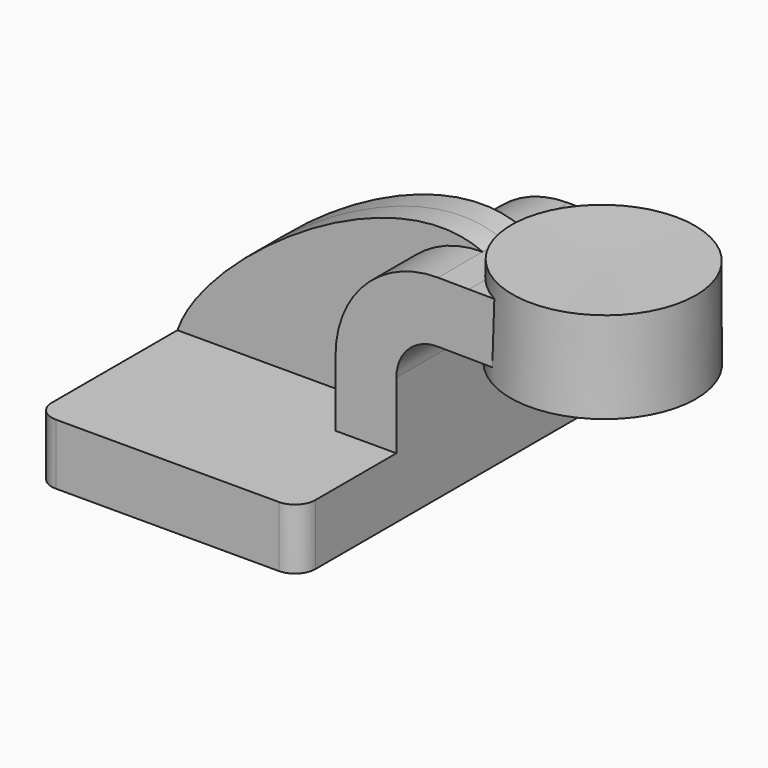
from build123d import *

# Parameters (mm, degrees)
F1_DEPTH = 63.5
F2_DEPTH = 25.4
F3_DEPTH = 7.9375
F5_R     = 6.35


with BuildPart() as f1:
    # F0 (on Front) → F1 (new body, symmetric)
    with BuildSketch(Plane.XZ):
        Polygon((41.275, -9.525), (41.275, 9.525), (22.225, 9.525), (-41.275, 9.525), (-41.275, -9.525), align=None)
    extrude(amount=F1_DEPTH, both=True)

    # F0 (on Front) → F2 (join, symmetric)
    with BuildSketch(Plane.XZ):
        Polygon((63.9889016747, 62.1188126437), (63.9889016747, 43.0680627667), (85.6312127138, 42.8760321675), (85.8415678118, 61.9249155796), align=None)
        with BuildLine():
            Line((22.225, 9.525), (41.275, 9.525))
            Line((41.275, 9.525), (41.275, 30.394497076))
            ThreePointArc((41.275, 30.394497076), (45.0528398589, 39.4580924516), (54.1495976422, 43.1553661719))
            Line((54.1495976422, 43.1553661719), (63.9889016747, 43.0680627667))
            Line((63.9889016747, 43.0680627667), (63.9889016747, 62.1188126437))
            Line((63.9889016747, 62.1188126437), (54.3186202071, 62.2046163244))
            ThreePointArc((54.3186202071, 62.2046163244), (31.6423473224, 52.9881031659), (22.225, 30.394497076))
            Line((22.225, 30.394497076), (22.225, 9.525))
        make_face()
    extrude(amount=F2_DEPTH, both=True)

    # F0 (on Front) → F3 (join, symmetric)
    with BuildSketch(Plane.XZ):
        with BuildLine():
            Line((-41.275, 9.525), (22.225, 9.525))
            Line((22.225, 9.525), (22.225, 30.394497076))
            ThreePointArc((22.225, 30.394497076), (31.6423473224, 52.9881031659), (54.3186202071, 62.2046163244))
            add(Edge.make_bspline(
                [(-41.275, 9.525), (-32.9198464751, 34.1910012066), (25.594945997, 75.3937736154), (54.3186202071, 62.2046163244)],
                knots=[0, 0, 0, 0, 109.1479830339, 109.1479830339, 109.1479830339, 109.1479830339], degree=3))
        make_face()
    extrude(amount=F3_DEPTH, both=True)

    # F0 (on Front) → F4 (revolve)
    with BuildSketch(Plane.XZ):
        Polygon((85.8415678118, 61.9249155796), (85.6312127138, 42.8760321675), (85.5784714222, 38.1), (114.7889016747, 38.1), (114.7889016747, 66.675), (85.8940225648, 66.675), align=None)
    revolve(axis=Axis((85.7362469935, 0, 52.3875), (0.0110422364, 0, 0.9999390326)))

    # F5
    f5_edges = [f1.edges().sort_by_distance(p)[0] for p in [
        (-41.275, -63.5, 0),
        (41.275, -63.5, 0),
        (41.275, 63.5, 0),
        (-41.275, 63.5, 0),
    ]]
    fillet(f5_edges, radius=F5_R)


solid = f1.part
